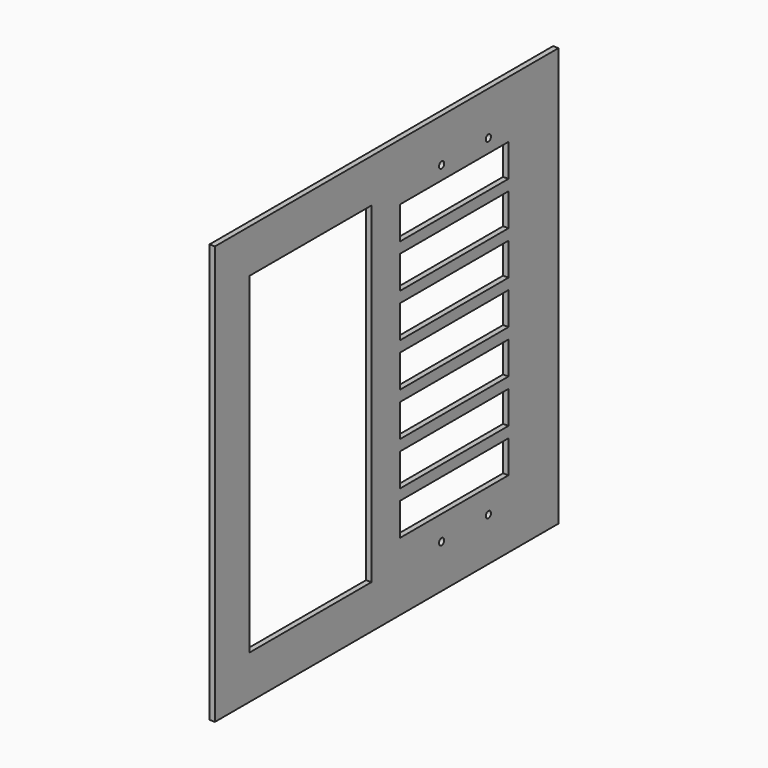
from build123d import *

# Parameters (mm, degrees)
SKETCH001_W         = 501.65
SKETCH001_H         = 488.95
SKETCH001_R         = 3.81
SKETCH001_W_2       = 177.8
SKETCH001_H_2       = 387.35
PAD007_DEPTH        = 6.35
SKETCH005_W         = 158.75
SKETCH005_H         = 38.1
POCKET_DEPTH        = 6.35
LINEARPATTERN_COUNT = 7
LINEARPATTERN_PITCH = 50.8


with BuildPart() as part:
    # Sketch001 → Pad007 (new body)
    with BuildSketch(Plane(origin=(914.4, 1422.4, 914.4), x_dir=(0, 1, 0), z_dir=(-1, 0, 0))):
        Rectangle(SKETCH001_W, SKETCH001_H)
        with Locations((80.16875, 193.675)):
            Circle(SKETCH001_R, mode=Mode.SUBTRACT)
        with Locations((148.43125, 193.675)):
            Circle(SKETCH001_R, mode=Mode.SUBTRACT)
        with Locations((80.16875, -193.675)):
            Circle(SKETCH001_R, mode=Mode.SUBTRACT)
        with Locations((148.43125, -193.675)):
            Circle(SKETCH001_R, mode=Mode.SUBTRACT)
        with Locations((-111.125, 0)):
            Rectangle(SKETCH001_W_2, SKETCH001_H_2, mode=Mode.SUBTRACT)
    extrude(amount=PAD007_DEPTH)

    # Sketch005 → Pocket (cut)
    with BuildSketch(Plane(origin=(914.4, 1422.4, 914.4), x_dir=(0, 1, 0), z_dir=(1, 0, 0))):
        with Locations((98.425, 158.75)):
            Rectangle(SKETCH005_W, SKETCH005_H)
    pocket = extrude(amount=-POCKET_DEPTH, mode=Mode.SUBTRACT)

    # LinearPattern: Pocket ×7
    with Locations(*[(0, 0, -i * LINEARPATTERN_PITCH) for i in range(1, LINEARPATTERN_COUNT)]):
        add(pocket, mode=Mode.SUBTRACT)


solid = part.part
